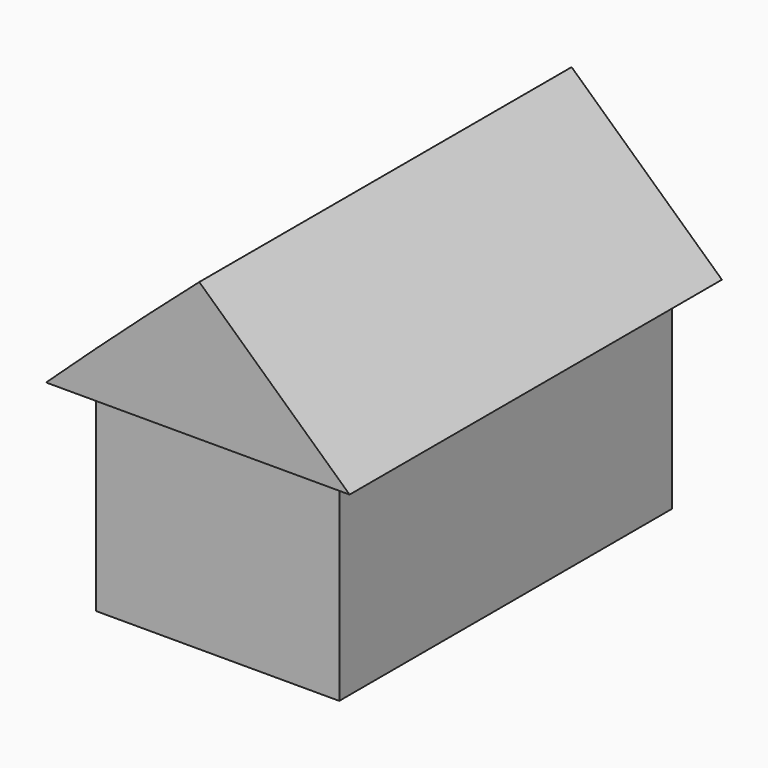
from build123d import *

# Parameters (mm, degrees)
F0_W          = 102.824826
F0_H          = 85.087308
F2_DEPTH      = 175.62094
F3_DEPTH      = 186.03524
F3_DEPTH_BACK = 10.57893
F4_DEPTH      = 63.5


with BuildPart() as f2:
    # F0 (on Front) → F2 (new body)
    with BuildSketch(Plane.XZ):
        with Locations((-13.792595, -34.067582)):
            Rectangle(F0_W, F0_H)
    extrude(amount=F2_DEPTH)

    # F1 (on Front) → F3 (join, two sides)
    with BuildSketch(Plane.XZ) as f3_sk:
        with BuildLine():
            ThreePointArc((50.319818, 8.476072), (18.556965, 37.672102), (-13.180182, 66.896072))
            ThreePointArc((-13.180182, 66.896072), (-45.789547, 37.959676), (-77.905008, 8.476072))
            Line((-77.905008, 8.476072), (50.319818, 8.476072))
        make_face()
    extrude(amount=F3_DEPTH)
    extrude(f3_sk.sketch, amount=-F3_DEPTH_BACK)

    # F0 (on Front) → F4 (join)
    with BuildSketch(Plane.XZ):
        with Locations((-13.792595, -34.067582)):
            Rectangle(F0_W, F0_H)
    extrude(amount=F4_DEPTH)


solid = f2.part
